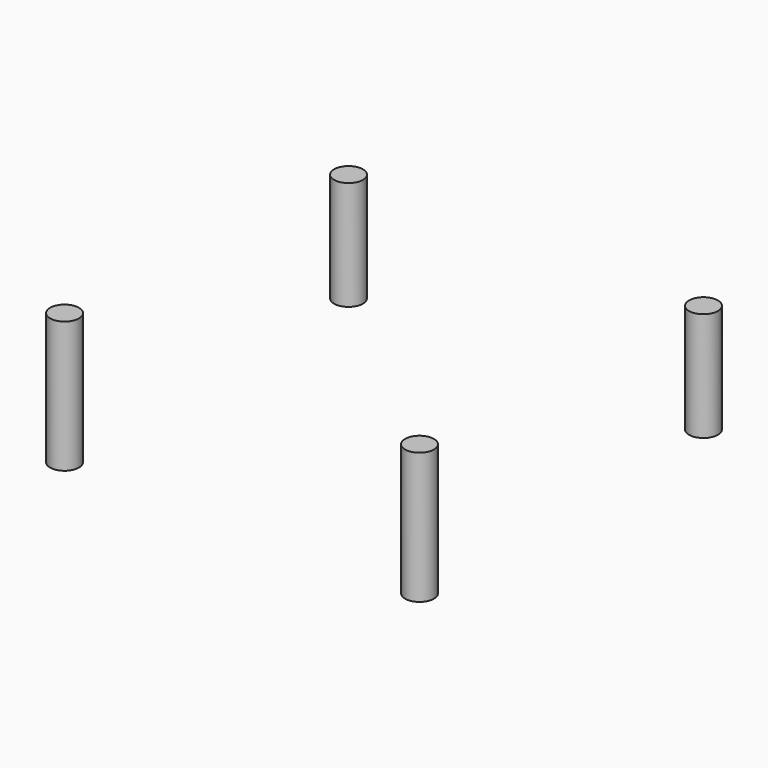
from build123d import *

# Parameters (mm, degrees)
CYLINDER015_R     = 2.579687
CYLINDER015_DEPTH = 23.5
CYLINDER014_R     = 2.579687
CYLINDER014_DEPTH = 19.5
CYLINDER013_R     = 2.579687
CYLINDER013_DEPTH = 19.5
CYLINDER016_R     = 2.579687
CYLINDER016_DEPTH = 23.5


with BuildPart() as threaded003:
    # Cylinder015 → Cylinder015 (new body)
    with BuildSketch(Plane(origin=(73.25, 116.25, 4), x_dir=(1, 0, 0), z_dir=(0, 0, 1))):
        Circle(CYLINDER015_R)
    extrude(amount=CYLINDER015_DEPTH)


with BuildPart() as threaded002:
    # Cylinder014 → Cylinder014 (new body)
    with BuildSketch(Plane(origin=(73.25, 179.75, 4), x_dir=(1, 0, 0), z_dir=(0, 0, 1))):
        Circle(CYLINDER014_R)
    extrude(amount=CYLINDER014_DEPTH)


with BuildPart() as threaded001:
    # Cylinder013 → Cylinder013 (new body)
    with BuildSketch(Plane(origin=(136.75, 179.75, 4), x_dir=(1, 0, 0), z_dir=(0, 0, 1))):
        Circle(CYLINDER013_R)
    extrude(amount=CYLINDER013_DEPTH)


with BuildPart() as risers:
    # Cylinder016 → Cylinder016 (new body)
    with BuildSketch(Plane(origin=(136.75, 116.25, 4), x_dir=(1, 0, 0), z_dir=(0, 0, 1))):
        Circle(CYLINDER016_R)
    extrude(amount=CYLINDER016_DEPTH)

    # Fusion003: union Threaded003, Threaded002, Threaded001
    add(threaded003.part)
    add(threaded002.part)
    add(threaded001.part)


solid = risers.part
